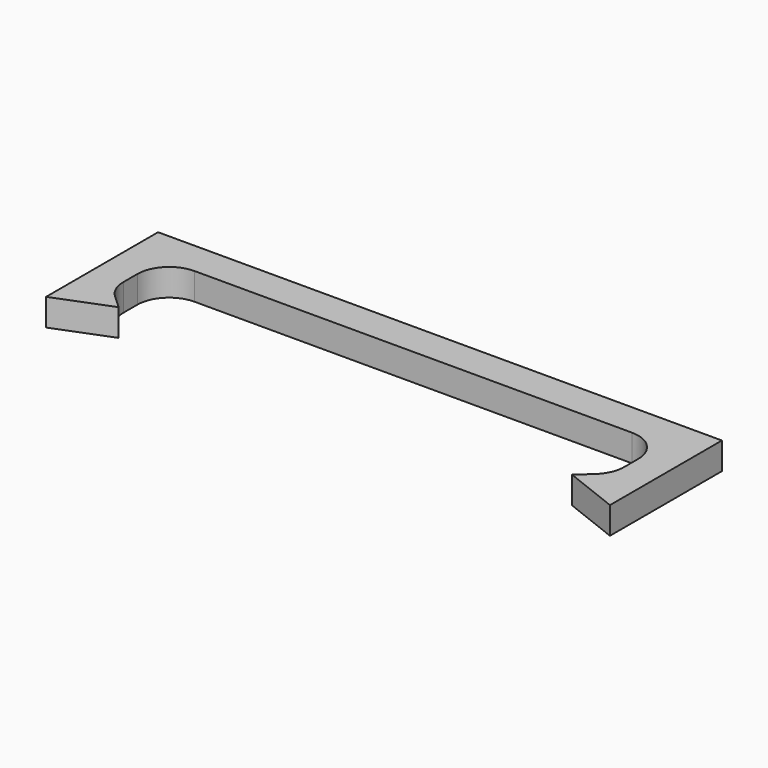
from build123d import *

# Parameters (mm, degrees)
F1_DEPTH = 4.318
F2_R     = 5.08


with BuildPart() as f1:
    # F0 (on Top) → F1 (new body)
    with BuildSketch(Plane.XY):
        Polygon((-32.902525, -8.854119), (-36.682051, -5.389552), (-36.682051, 4.689189), (43.317949, 4.689189), (43.317949, -5.389552), (39.538425, -8.854119), (48.357325, -12.318687), (48.357325, 10.043521), (-41.721424, 10.043521), (-41.721424, -12.318687), align=None)
    extrude(amount=F1_DEPTH)

    # F2
    f2_edges = [f1.edges().sort_by_distance(p)[0] for p in [
        (-36.682051, 4.689189, 2.159),
        (43.317949, 4.689189, 2.159),
        (-36.682051, -5.389552, 2.159),
        (43.317949, -5.389552, 2.159),
    ]]
    fillet(f2_edges, radius=F2_R)


solid = f1.part
